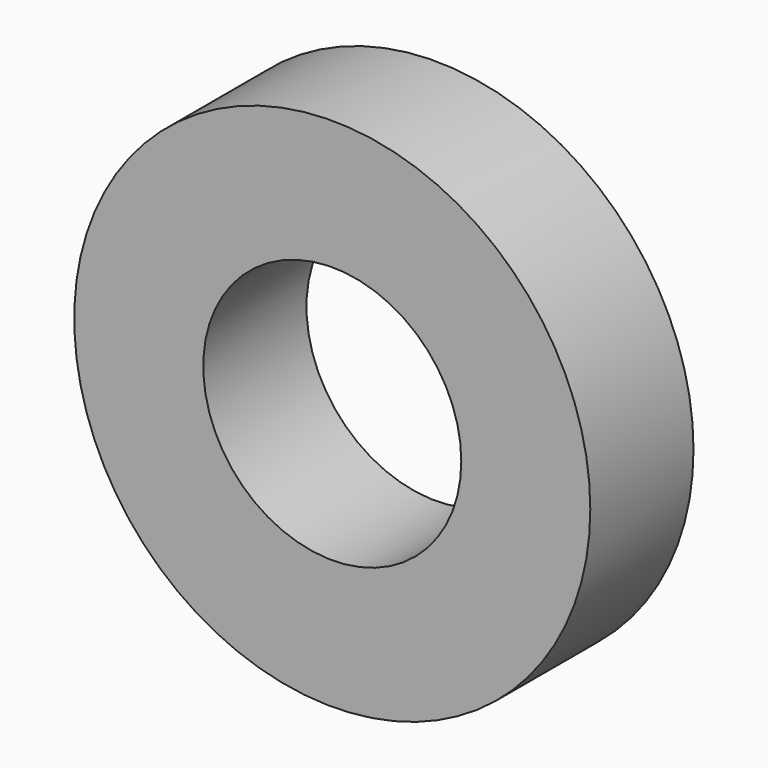
from build123d import *

# Parameters (mm, degrees)
SKETCH253_AS_DRAWN_R                 = 1
EXTRUDE055_DEPTH                     = 10
EXTRUDE055_ONTO_SKETCH253_ROLL_ANGLE = 90
SKETCH250_AS_DRAWN_R                 = 2
EXTRUDE053_DEPTH                     = 1
EXTRUDE053_ONTO_SKETCH250_ROLL_ANGLE = 90


with BuildPart() as extrude055:
    # Sketch253 as drawn → Extrude055 (new)
    with BuildSketch(Plane.XY):
        Circle(SKETCH253_AS_DRAWN_R)
    extrude(amount=-EXTRUDE055_DEPTH)


with BuildPart() as extrude055_1:
    # Extrude055 onto Sketch253 roll: moved
    add(extrude055.part.rotate(Axis((0, 0, 0), (1, 0, 0)), EXTRUDE055_ONTO_SKETCH253_ROLL_ANGLE))


with BuildPart() as extrude055_2:
    # Extrude055 onto Sketch253 placement: moved
    add(extrude055_1.part)


with BuildPart() as extrude055_3:
    # Extrude055 placement: moved
    add(extrude055_2.part.moved(Location((0, 30, 0))))


with BuildPart() as cut033:
    # Sketch250 as drawn → Extrude053 (new)
    with BuildSketch(Plane.XY):
        Circle(SKETCH250_AS_DRAWN_R)
    extrude(amount=-EXTRUDE053_DEPTH)


with BuildPart() as cut033_1:
    # Extrude053 onto Sketch250 roll: moved
    add(cut033.part.rotate(Axis((0, 0, 0), (1, 0, 0)), EXTRUDE053_ONTO_SKETCH250_ROLL_ANGLE))


with BuildPart() as cut033_2:
    # Extrude053 onto Sketch250 placement: moved
    add(cut033_1.part.moved(Location((0, 34, 0))))


with BuildPart() as cut033_3:
    # Extrude053 placement: moved
    add(cut033_2.part.moved(Location((0, -1.2, 0))))

    # Cut033: cut Extrude055
    add(extrude055_3.part, mode=Mode.SUBTRACT)


solid = cut033_3.part
